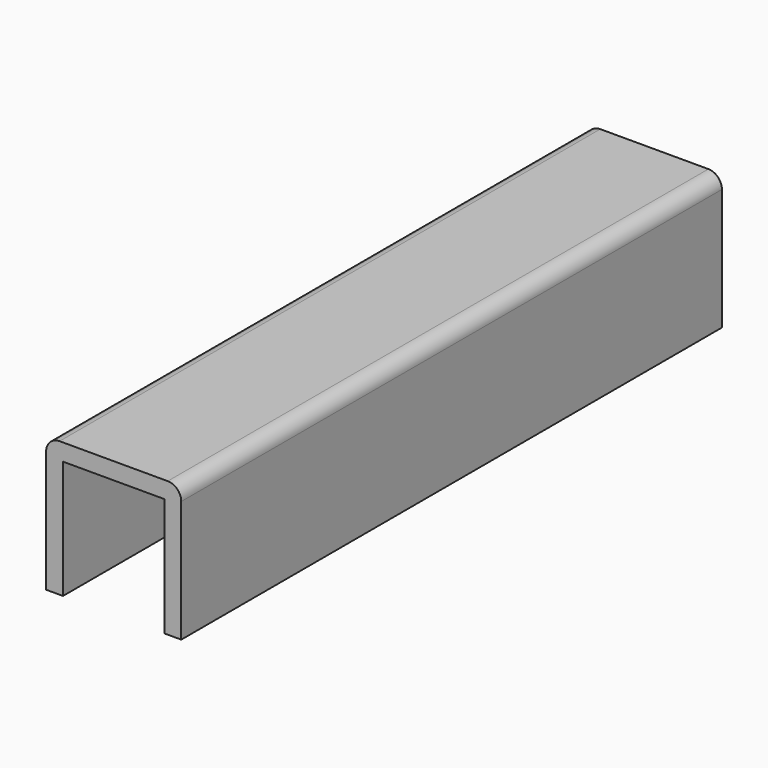
from build123d import *

# Parameters (mm, degrees)
F1_DEPTH = 127
F2_R     = 5.08


with BuildPart() as f1:
    # F0 (on Front) → F1 (new body, symmetric)
    with BuildSketch(Plane.XZ):
        Polygon((0, 50.8), (0, 0), (6.35, 0), (6.35, 44.45), (44.45, 44.45), (44.45, 0), (50.8, 0), (50.8, 50.8), align=None)
    extrude(amount=F1_DEPTH, both=True)

    # F2
    f2_edges = [f1.edges().sort_by_distance(p)[0] for p in [
        (0, 0, 50.8),
        (50.8, 0, 50.8),
    ]]
    fillet(f2_edges, radius=F2_R)


solid = f1.part
